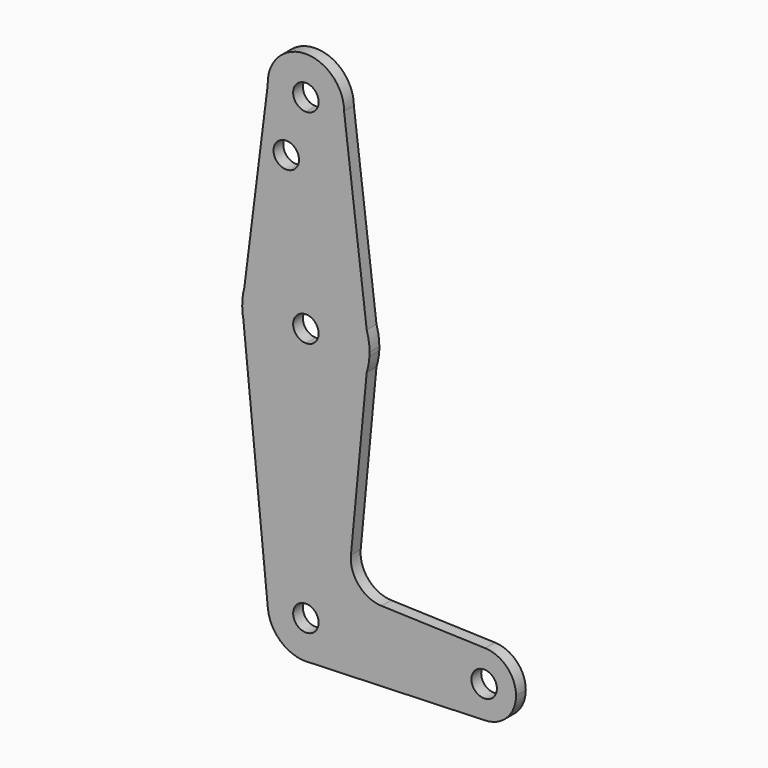
from build123d import *

# Parameters (mm, degrees)
F0_R     = 3.175
F1_DEPTH = 3.048


with BuildPart() as f1:
    # F0 (on Front) → F1 (new body)
    with BuildSketch(Plane.XZ):
        with BuildLine():
            ThreePointArc((-38.4467734943, 89.1987298072), (-35.5268702404, 82.7144966449), (-28.9296026913, 80.0598449538))
            ThreePointArc((-28.9296026913, 80.0598449538), (-22.1944106005, 82.849652863), (-19.4046026913, 89.5848449538))
            ThreePointArc((-19.4046026913, 89.5848449538), (-19.4046199611, 89.6029830469), (-19.4046717706, 89.6211210742))
            ThreePointArc((-19.4046717706, 89.6211210742), (-29.1408339637, 99.1075024794), (-38.4467734943, 89.1987298072))
        make_face()
        with BuildLine():
            ThreePointArc((-25.7546026913, 89.5848449538), (-26.684538661, 87.3397809236), (-28.9296026913, 86.4098449538))
            ThreePointArc((-28.9296026913, 86.4098449538), (-31.1746667216, 91.8299089841), (-25.7546026913, 89.5848449538))
        make_face(mode=Mode.SUBTRACT)
        with BuildLine():
            ThreePointArc((-19.4046026913, 89.5848449538), (-22.1944106005, 82.849652863), (-28.9296026913, 80.0598449538))
            Line((-28.9296026913, 80.0598449538), (-28.9296026913, 54.6598449538))
            ThreePointArc((-28.9296026913, 54.6598449538), (-19.5057924464, 51.5601111142), (-13.7621464238, 43.4714103672))
            Line((-13.7621464238, 43.4714103672), (-19.4046717706, 89.6211210742))
            ThreePointArc((-19.4046717706, 89.6211210742), (-19.4046199611, 89.6029830469), (-19.4046026913, 89.5848449538))
        make_face()
        with BuildLine():
            Line((-28.9296026913, 54.6598449538), (-28.9296026913, 80.0598449538))
            ThreePointArc((-28.9296026913, 80.0598449538), (-35.5268702404, 82.7144966449), (-38.4467734943, 89.1987298072))
            Line((-38.4467734943, 89.1987298072), (-44.2702591927, 42.8689462142))
            ThreePointArc((-44.2702591927, 42.8689462142), (-38.603808537, 51.3715588321), (-28.9296026913, 54.6598449538))
        make_face()
        with Locations((-33.8230319321, 75.3100449538)):
            Circle(F0_R, mode=Mode.SUBTRACT)
        with BuildLine():
            ThreePointArc((-13.7621464238, 43.4714103672), (-19.5057924464, 51.5601111142), (-28.9296026913, 54.6598449538))
            Line((-28.9296026913, 54.6598449538), (-28.9296026913, 41.9598449538))
            ThreePointArc((-28.9296026913, 41.9598449538), (-26.684538661, 41.0299089841), (-25.7546026913, 38.7848449538))
            ThreePointArc((-25.7546026913, 38.7848449538), (-26.684538661, 36.5397809236), (-28.9296026913, 35.6098449538))
            Line((-28.9296026913, 35.6098449538), (-28.9296026913, 22.9098449538))
            ThreePointArc((-28.9296026913, 22.9098449538), (-19.5186671801, 26.0000916201), (-13.7716198062, 34.067729325))
            ThreePointArc((-13.7716198062, 34.067729325), (-13.3083287014, 35.9579342842), (-13.0798079016, 37.8906245541))
            Line((-13.0798079016, 37.8906245541), (-13.7621464238, 43.4714103672))
        make_face()
        with BuildLine():
            Line((-28.9296026913, 41.9598449538), (-28.9296026913, 54.6598449538))
            ThreePointArc((-28.9296026913, 54.6598449538), (-38.603808537, 51.3715588321), (-44.2702591927, 42.8689462142))
            Line((-44.2702591927, 42.8689462142), (-44.8037912382, 38.6243364587))
            Line((-44.8037912382, 38.6243364587), (-44.5241951523, 35.8142707712))
            ThreePointArc((-44.5241951523, 35.8142707712), (-39.0503180773, 26.5542789377), (-28.9296026913, 22.9098449538))
            Line((-28.9296026913, 22.9098449538), (-28.9296026913, 35.6098449538))
            ThreePointArc((-28.9296026913, 35.6098449538), (-32.1046026913, 38.7848449538), (-28.9296026913, 41.9598449538))
        make_face()
        with BuildLine():
            ThreePointArc((-13.0546026913, 38.7848449538), (-13.2324852291, 41.1546821585), (-13.7621464238, 43.4714103672))
            Line((-13.7621464238, 43.4714103672), (-13.0798079016, 37.8906245541))
            ThreePointArc((-13.0798079016, 37.8906245541), (-13.0609052449, 38.3375571757), (-13.0546026913, 38.7848449538))
        make_face()
        with BuildLine():
            Line((-44.8037912382, 38.6243364587), (-44.2702591927, 42.8689462142))
            ThreePointArc((-44.2702591927, 42.8689462142), (-44.6806603016, 40.7646957456), (-44.8037912382, 38.6243364587))
        make_face()
        with BuildLine():
            Line((-44.5241951523, 35.8142707712), (-44.8037912382, 38.6243364587))
            ThreePointArc((-44.8037912382, 38.6243364587), (-44.7266011981, 37.2130742401), (-44.5241951523, 35.8142707712))
        make_face()
        with BuildLine():
            ThreePointArc((-13.7716198062, 34.067729325), (-19.5186671801, 26.0000916201), (-28.9296026913, 22.9098449538))
            Line((-28.9296026913, 22.9098449538), (-28.9296026913, -15.1901550462))
            ThreePointArc((-28.9296026913, -15.1901550462), (-22.1944106005, -17.9799629554), (-19.4046026913, -24.7151550462))
            Line((-19.4046026913, -24.7151550462), (7.5828973087, -24.7151550462))
            ThreePointArc((7.5828973087, -24.7151550462), (10.0036094757, -19.0082330863), (15.7892489952, -16.7822095011))
            Line((15.7892489952, -16.7822095011), (-10.0515768848, -15.9064503549))
            ThreePointArc((-10.0515768848, -15.9064503549), (-15.7537723594, -13.2093489038), (-17.6967892794, -7.2081761254))
            Line((-17.6967892794, -7.2081761254), (-13.7716198062, 34.067729325))
        make_face()
        with BuildLine():
            Line((-28.9296026913, -15.1901550462), (-28.9296026913, 22.9098449538))
            ThreePointArc((-28.9296026913, 22.9098449538), (-39.0503180773, 26.5542789377), (-44.5241951523, 35.8142707712))
            Line((-44.5241951523, 35.8142707712), (-38.4078017954, -25.6582174744))
            ThreePointArc((-38.4078017954, -25.6582174744), (-35.9903496287, -18.3220745926), (-28.9296026913, -15.1901550462))
        make_face()
        with BuildLine():
            Line((-28.9296026913, -21.5401550462), (-28.9296026913, -15.1901550462))
            ThreePointArc((-28.9296026913, -15.1901550462), (-35.9903496287, -18.3220745926), (-38.4078017954, -25.6582174744))
            ThreePointArc((-38.4078017954, -25.6582174744), (-34.8741019615, -32.1575036961), (-27.7545452647, -34.1673963171))
            ThreePointArc((-27.7545452647, -34.1673963171), (-21.7910437685, -31.0212316003), (-19.4046026913, -24.7151550462))
            Line((-19.4046026913, -24.7151550462), (-25.7546026913, -24.7151550462))
            ThreePointArc((-25.7546026913, -24.7151550462), (-31.1746667216, -26.9602190764), (-28.9296026913, -21.5401550462))
        make_face()
        with BuildLine():
            Line((7.5828973087, -24.7151550462), (-19.4046026913, -24.7151550462))
            ThreePointArc((-19.4046026913, -24.7151550462), (-21.7910437685, -31.0212316003), (-27.7545452647, -34.1673963171))
            Line((-27.7545452647, -34.1673963171), (15.797177152, -32.6478279355))
            ThreePointArc((15.797177152, -32.6478279355), (10.0064619516, -30.4248330693), (7.5828973087, -24.7151550462))
        make_face()
        with BuildLine():
            ThreePointArc((15.7892489952, -16.7822095011), (10.0036094757, -19.0082330863), (7.5828973087, -24.7151550462))
            ThreePointArc((7.5828973087, -24.7151550462), (10.0064619516, -30.4248330693), (15.797177152, -32.6478279355))
            ThreePointArc((15.797177152, -32.6478279355), (21.2300753319, -30.2290904032), (23.4578973087, -24.7151550462))
            ThreePointArc((23.4578973087, -24.7151550462), (21.2273192685, -19.1983672132), (15.7892489952, -16.7822095011))
        make_face()
        with BuildLine():
            ThreePointArc((18.6953973087, -24.7151550462), (15.5203973087, -27.8901550462), (12.3453973087, -24.7151550462))
            ThreePointArc((12.3453973087, -24.7151550462), (15.5203973087, -21.5401550462), (18.6953973087, -24.7151550462))
        make_face(mode=Mode.SUBTRACT)
        with BuildLine():
            ThreePointArc((-19.4046026913, -24.7151550462), (-22.1944106005, -17.9799629554), (-28.9296026913, -15.1901550462))
            Line((-28.9296026913, -15.1901550462), (-28.9296026913, -21.5401550462))
            ThreePointArc((-28.9296026913, -21.5401550462), (-26.684538661, -22.4700910159), (-25.7546026913, -24.7151550462))
            Line((-25.7546026913, -24.7151550462), (-19.4046026913, -24.7151550462))
        make_face()
    extrude(amount=F1_DEPTH)


solid = f1.part
